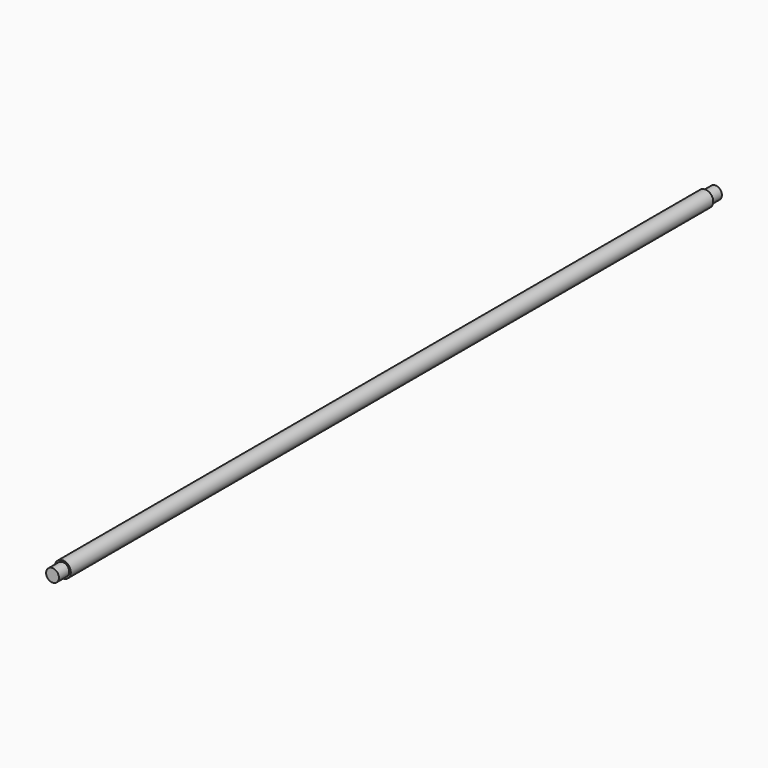
from build123d import *

# Parameters (mm, degrees)
F0_R     = 5
F1_DEPTH = 258
F2_R     = 9
F2_R_2   = 4
F3_DEPTH = 8
F4_R     = 5
F4_R_2   = 4
F5_DEPTH = 8


with BuildPart() as f1:
    # F0 (on Front) → F1 (new body, symmetric)
    with BuildSketch(Plane.XZ):
        Circle(F0_R)
    extrude(amount=F1_DEPTH, both=True)

    # F2 (on face) → F3 (cut)
    with BuildSketch(Plane.XZ.offset(258)):
        Circle(F2_R)
        Circle(F2_R_2, mode=Mode.SUBTRACT)
    extrude(amount=-F3_DEPTH, mode=Mode.SUBTRACT)

    # F4 (on face) → F5 (cut)
    with BuildSketch(Plane(origin=(0, 258, 0), x_dir=(-1, 0, 0), z_dir=(0, 1, 0))):
        Circle(F4_R)
        Circle(F4_R_2, mode=Mode.SUBTRACT)
    extrude(amount=-F5_DEPTH, mode=Mode.SUBTRACT)


solid = f1.part
